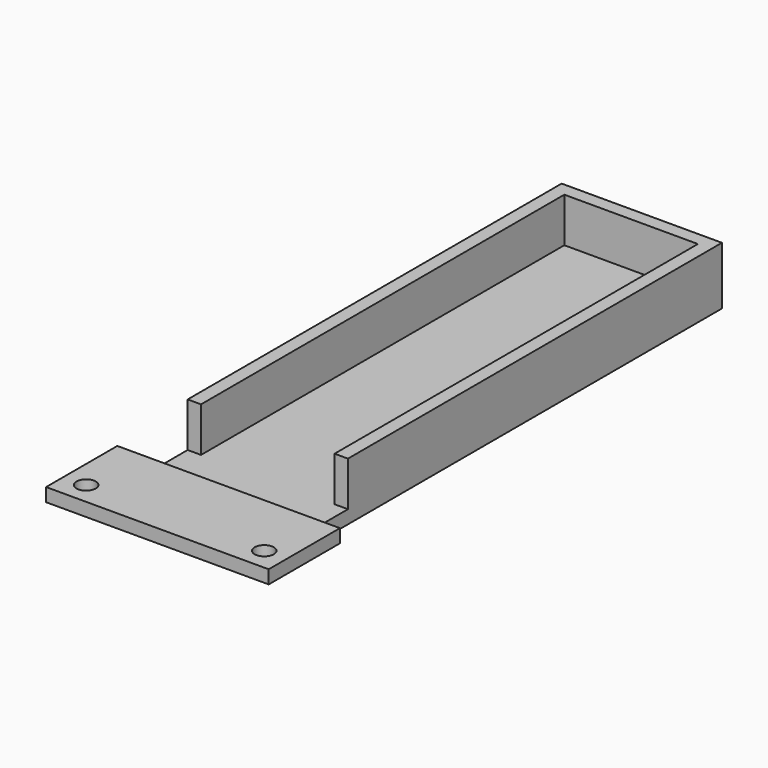
from build123d import *

# Parameters (mm, degrees)
PAD_DEPTH       = 3
PAD001_DEPTH    = 10
SKETCH002_W     = 50
SKETCH002_H     = 20
PAD002_DEPTH    = 3
SKETCH003_R     = 2.15
POCKET_DEPTH    = 5
SKETCH004_W     = 36
SKETCH004_H     = 15
POCKET001_DEPTH = 3
SKETCH005_W     = 36
SKETCH005_H     = 0.4
POCKET002_DEPTH = 3


with BuildPart() as part:
    # Sketch → Pad (new body)
    with BuildSketch(Plane.XY):
        Polygon((0, 116), (0, 0), (0, -20), (36, -20), (36, 0), (36, 116), align=None)
    extrude(amount=PAD_DEPTH)

    # Sketch001 (on Face4 of Pad) → Pad001 (join)
    with BuildSketch(Plane.XY.offset(3)):
        Polygon((0, 11), (3, 11), (3, 113), (33, 113), (33, 11), (36, 11), (36, 116), (0, 116), align=None)
    extrude(amount=PAD001_DEPTH)

    # Sketch002 (on Face3 of Pad001) → Pad002 (join)
    with BuildSketch(Plane.XY.offset(3)):
        with Locations((18, -10)):
            Rectangle(SKETCH002_W, SKETCH002_H)
    extrude(amount=PAD002_DEPTH)

    # Sketch003 (on Face13 of Pad002) → Pocket (cut)
    with BuildSketch(Plane.XY.offset(6)):
        with Locations((-2, -15)):
            Circle(SKETCH003_R)
        with Locations((38, -15)):
            Circle(SKETCH003_R)
    extrude(amount=-POCKET_DEPTH, mode=Mode.SUBTRACT)

    # Sketch004 (on Face10 of Pocket) → Pocket001 (cut)
    with BuildSketch(Plane(origin=(0, 0, 0), x_dir=(1, 0, 0), z_dir=(0, 0, -1))):
        with Locations((18, 12.5)):
            Rectangle(SKETCH004_W, SKETCH004_H)
    extrude(amount=-POCKET001_DEPTH, mode=Mode.SUBTRACT)

    # Sketch005 (on Face7 of Pocket001) → Pocket002 (cut)
    with BuildSketch(Plane(origin=(0, 0, 0), x_dir=(1, 0, 0), z_dir=(0, 0, -1))):
        with Locations((18, 4.8)):
            Rectangle(SKETCH005_W, SKETCH005_H)
    extrude(amount=-POCKET002_DEPTH, mode=Mode.SUBTRACT)


solid = part.part
